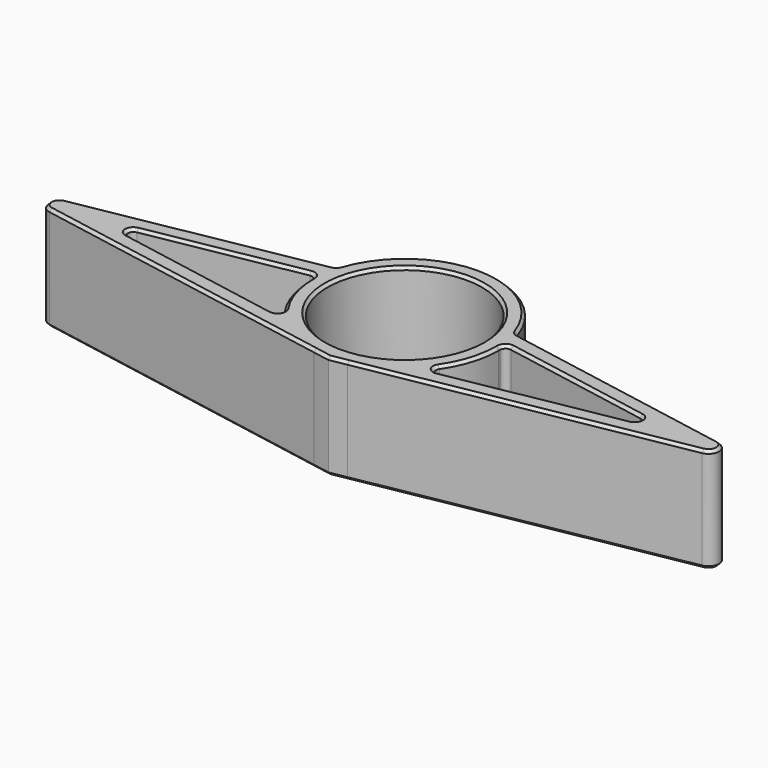
from build123d import *

# Parameters (mm, degrees)
F0_R     = 11.1
F1_DEPTH = 15
F2_R     = 0.8
F3_R     = 1.5
F4_SIZE  = 0.4


with BuildPart() as f1:
    # F0 (on Top) → F1 (new body)
    with BuildSketch(Plane.XY):
        with BuildLine():
            Line((-12.915164, 7.651788), (-55, 0))
            Line((-55, 0), (-2.414954, -9.560917))
            ThreePointArc((-2.414954, -9.560917), (-6.417434, -8.155817), (-9.786299, -5.578047))
            Line((-9.786299, -5.578047), (-40.465558, 0))
            Line((-40.465558, 0), (-13.447354, 4.912401))
            ThreePointArc((-13.447354, 4.912401), (-13.252232, 6.295883), (-12.915164, 7.651788))
        make_face()
        with BuildLine():
            ThreePointArc((12.915164, 7.651788), (0, 17.221326), (-12.915164, 7.651788))
            ThreePointArc((-12.915164, 7.651788), (-13.252232, 6.295883), (-13.447354, 4.912401))
            ThreePointArc((-13.447354, 4.912401), (-12.746099, -0.726927), (-9.786299, -5.578047))
            ThreePointArc((-9.786299, -5.578047), (-6.417434, -8.155817), (-2.414954, -9.560917))
            ThreePointArc((-2.414954, -9.560917), (0, -9.778674), (2.414954, -9.560917))
            ThreePointArc((2.414954, -9.560917), (6.417434, -8.155817), (9.786299, -5.578047))
            ThreePointArc((9.786299, -5.578047), (12.537245, -1.285417), (13.5, 3.721326))
            ThreePointArc((13.5, 3.721326), (13.486832, 4.317445), (13.447354, 4.912401))
            ThreePointArc((13.447354, 4.912401), (13.252232, 6.295883), (12.915164, 7.651788))
        make_face()
        with Locations((0, 3.721326)):
            Circle(F0_R, mode=Mode.SUBTRACT)
        with BuildLine():
            ThreePointArc((2.414954, -9.560917), (0, -9.778674), (-2.414954, -9.560917))
            Line((-2.414954, -9.560917), (0, -10))
            Line((0, -10), (2.414954, -9.560917))
        make_face()
        with BuildLine():
            Line((55, 0), (12.915164, 7.651788))
            ThreePointArc((12.915164, 7.651788), (13.252232, 6.295883), (13.447354, 4.912401))
            Line((13.447354, 4.912401), (40.465558, 0))
            Line((40.465558, 0), (9.786299, -5.578047))
            ThreePointArc((9.786299, -5.578047), (6.417434, -8.155817), (2.414954, -9.560917))
            Line((2.414954, -9.560917), (55, 0))
        make_face()
    extrude(amount=F1_DEPTH)

    # F2
    f2_edges = [f1.edges().sort_by_distance(p)[0] for p in [
        (-40.465558, 0, 7.5),
        (40.465558, 0, 7.5),
        (-9.786299, -5.578047, 7.5),
        (9.786299, -5.578047, 7.5),
        (-13.447354, 4.912401, 7.5),
        (13.447354, 4.912401, 7.5),
        (12.915164, 7.651788, 7.5),
        (-12.915164, 7.651788, 7.5),
    ]]
    fillet(f2_edges, radius=F2_R)

    # F3
    f3_edges = [f1.edges().sort_by_distance(p)[0] for p in [
        (55, 0, 7.5),
        (-55, 0, 7.5),
    ]]
    fillet(f3_edges, radius=F3_R)

    # F4
    f4_edges = [f1.edges().sort_by_distance(p)[0] for p in [
        (-30.134502, 4.521, 15),
        (-48.114745, 0, 15),
        (-13.007334, 7.746806, 15),
        (-23.441537, -5.737902, 15),
        (0, 17.221326, 15),
        (23.441537, -5.737902, 15),
        (13.007334, 7.746806, 15),
        (48.114745, 0, 15),
        (30.134502, 4.521, 15),
        (-11.1, 3.721326, 15),
        (12.919215, -0.195801, 15),
        (13.78088, 4.554757, 15),
        (11.094527, -4.838669, 15),
        (25.288948, 2.759384, 15),
        (24.023167, -2.989526, 15),
        (36.793422, 0, 15),
        (-24.023167, -2.989526, 15),
        (-11.094527, -4.838669, 15),
        (-36.793422, 0, 15),
        (-12.919215, -0.195801, 15),
        (-25.288948, 2.759384, 15),
        (-13.78088, 4.554757, 15),
        (-30.134502, 4.521, 0),
        (-48.114745, 0, 0),
        (-13.007334, 7.746806, 0),
        (-23.441537, -5.737902, 0),
        (0, 17.221326, 0),
        (23.441537, -5.737902, 0),
        (13.007334, 7.746806, 0),
        (48.114745, 0, 0),
        (30.134502, 4.521, 0),
        (-11.1, 3.721326, 0),
        (12.919215, -0.195801, 0),
        (11.094527, -4.838669, 0),
        (13.78088, 4.554757, 0),
        (24.023167, -2.989526, 0),
        (25.288948, 2.759384, 0),
        (36.793422, 0, 0),
        (-24.023167, -2.989526, 0),
        (-11.094527, -4.838669, 0),
        (-36.793422, 0, 0),
        (-12.919215, -0.195801, 0),
        (-25.288948, 2.759384, 0),
        (-13.78088, 4.554757, 0),
    ]]
    chamfer(f4_edges, length=F4_SIZE)


solid = f1.part
